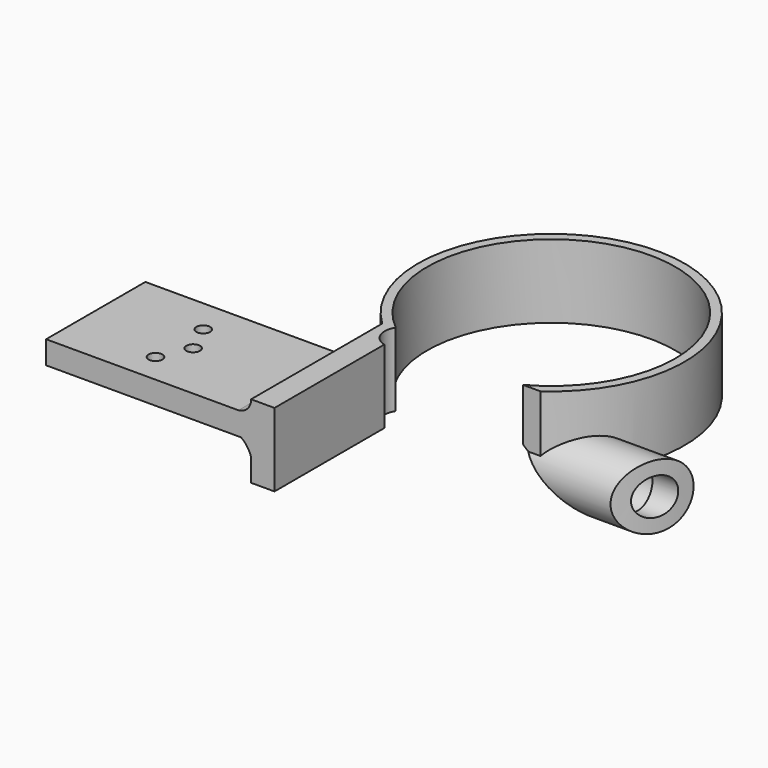
from build123d import *

# Parameters (mm, degrees)
PAD026_DEPTH         = 16
SKETCH047_W          = 36.5505813425
SKETCH047_H          = 33
PAD027_DEPTH         = 16
SKETCH049_W          = 27
SKETCH049_H          = 5
PAD028_DEPTH         = 44.6
SKETCH048_W          = 33.1432370811
SKETCH048_H          = 35
POCKET031_DEPTH      = 16
SKETCH062_R          = 7
PAD029_DEPTH         = 40
SKETCH063_R          = 4
POCKET032_DEPTH      = 42
SKETCH065_R          = 5.1
POCKET033_DEPTH      = 33
SKETCH067_R          = 27
POCKET034_DEPTH      = 16
POCKET034_DEPTH_BACK = 16
POCKET050_DEPTH      = 23
PAD044_DEPTH         = 16
PAD045_DEPTH         = 26
PAD045_DEPTH_BACK    = 1
PAD046_DEPTH         = 26
PAD046_DEPTH_BACK    = 1
SKETCH099_R          = 1.5
POCKET051_DEPTH      = 5
SKETCH068_W          = 20.6
SKETCH068_H          = 23
POCKET052_DEPTH      = 7
SKETCH070_R          = 4
POCKET053_DEPTH      = 16


with BuildPart() as part:
    # Sketch045 → Pad026 (new body)
    with BuildSketch(Plane.XY):
        with BuildLine():
            ThreePointArc((16.6337166542, -23.7554092844), (0, 29), (-16.6337166542, -23.7554092844))
            Line((-16.6337166542, -23.7554092844), (16.6337166542, -23.7554092844))
        make_face()
    extrude(amount=PAD026_DEPTH)

    # Sketch047 → Pad027 (join)
    with BuildSketch(Plane.XY):
        with Locations((-1.6415607576, -40.2554)):
            Rectangle(SKETCH047_W, SKETCH047_H)
    extrude(amount=PAD027_DEPTH)

    # Sketch049 → Pad028 (join)
    with BuildSketch(Plane(origin=(-19.9168514289, 0, 0), x_dir=(0, -1, 0), z_dir=(-1, 0, 0))):
        with Locations((43.2554, 10.5)):
            Rectangle(SKETCH049_W, SKETCH049_H)
    extrude(amount=PAD028_DEPTH)

    # Sketch048 → Pocket031 (cut)
    with BuildSketch(Plane.XY):
        with Locations((1.7499799388, -41.2554)):
            Rectangle(SKETCH048_W, SKETCH048_H)
    extrude(amount=POCKET031_DEPTH, mode=Mode.SUBTRACT)

    # Sketch062 → Pad029 (join)
    with BuildSketch(Plane.YZ):
        with Locations((-17.7554, 0)):
            Circle(SKETCH062_R)
    extrude(amount=PAD029_DEPTH)

    # Sketch063 → Pocket032 (cut)
    with BuildSketch(Plane.YZ):
        with Locations((-17.7554, 0)):
            Circle(SKETCH063_R)
    extrude(amount=POCKET032_DEPTH, mode=Mode.SUBTRACT)

    # Sketch065 → Pocket033 (cut)
    with BuildSketch(Plane.YZ):
        with Locations((-17.7554, 0)):
            Circle(SKETCH065_R)
    extrude(amount=POCKET033_DEPTH, mode=Mode.SUBTRACT)

    # Sketch067 → Pocket034 (cut, two sides)
    with BuildSketch(Plane(origin=(0, 0, 0), x_dir=(1, 0, 0), z_dir=(0, 0, -1))) as pocket034_sk:
        Circle(SKETCH067_R)
    extrude(amount=-POCKET034_DEPTH, mode=Mode.SUBTRACT)
    extrude(pocket034_sk.sketch, amount=POCKET034_DEPTH_BACK, mode=Mode.SUBTRACT)

    # Sketch069 → Pocket050 (cut)
    with BuildSketch(Plane.XY.offset(16)):
        with BuildLine():
            ThreePointArc((21.7394688414, -34.7619834661), (34.6744517723, -21.8788115374), (40.7345717373, -4.6577532545))
            Line((40.7345717373, -4.6577532545), (77.483603, -4.6577532545))
            Line((77.483603, -4.6577532545), (77.483603, -35.651409))
            Line((21.7394688414, -34.7619834661), (77.483603, -35.651409))
        make_face()
    extrude(amount=-POCKET050_DEPTH, mode=Mode.SUBTRACT)

    # Sketch072 → Pad044 (join)
    with BuildSketch(Plane(origin=(0, 0, 0), x_dir=(1, 0, 0), z_dir=(0, 0, -1))):
        Polygon((-19.92, 25.478123), (-19.92, 19.578123), (-15.1, 25.478123), align=None)
    extrude(amount=-PAD044_DEPTH)

    # Sketch101 → Pad045 (join, two sides)
    with BuildSketch(Plane.XZ.offset(55.7554)) as pad045_sk:
        with BuildLine():
            ThreePointArc((-23.0890778045, 12.9959643316), (-20.9165956412, 13.739198554), (-19.9059643934, 15.8009212171))
            Line((-19.9059643933, 15.8009212171), (-17.161644, 10.394013))
            Line((-23.0890778045, 12.9959643316), (-17.161644, 10.394013))
        make_face()
    extrude(amount=-PAD045_DEPTH)
    extrude(pad045_sk.sketch, amount=PAD045_DEPTH_BACK)

    # Sketch100 → Pad046 (join, two sides)
    with BuildSketch(Plane.XZ.offset(55.7554)) as pad046_sk:
        with BuildLine():
            ThreePointArc((-19.6511636096, 2.9781881147), (-21.3108750101, 7.3106091304), (-25.5643652158, 9.1632652939))
            Line((-25.564365, 9.163265), (-16.937498, 9.628842))
            Line((-19.651164, 2.978188), (-16.937498, 9.628842))
        make_face()
    extrude(amount=-PAD046_DEPTH)
    extrude(pad046_sk.sketch, amount=PAD046_DEPTH_BACK)

    # Sketch099 → Pocket051 (cut)
    with BuildSketch(Plane(origin=(0, 0, 8), x_dir=(1, 0, 0), z_dir=(0, 0, -1))):
        with Locations((-45.92, 37.2554)):
            Circle(SKETCH099_R)
        with Locations((-45.92, 50.2554)):
            Circle(SKETCH099_R)
        with Locations((-42.92, 43.7554)):
            Circle(SKETCH099_R)
    extrude(amount=-POCKET051_DEPTH, mode=Mode.SUBTRACT)

    # Sketch068 (on DatumPlane) → Pocket052 (cut)
    with BuildSketch(Plane(origin=(24.3662700863, -13, 0), x_dir=(-0.5, -0.8660254038, 0), z_dir=(-0.6123724357, 0.3535533906, -0.7071067812))):
        with Locations((6.74, -3)):
            Rectangle(SKETCH068_W, SKETCH068_H)
    extrude(amount=POCKET052_DEPTH, mode=Mode.SUBTRACT)

    # Sketch070 → Pocket053 (cut)
    with BuildSketch(Plane(origin=(0, 0, 0), x_dir=(1, 0, 0), z_dir=(0, 0, -1))):
        with Locations((-13.85, 23)):
            Circle(SKETCH070_R)
    extrude(amount=-POCKET053_DEPTH, mode=Mode.SUBTRACT)


solid = part.part
